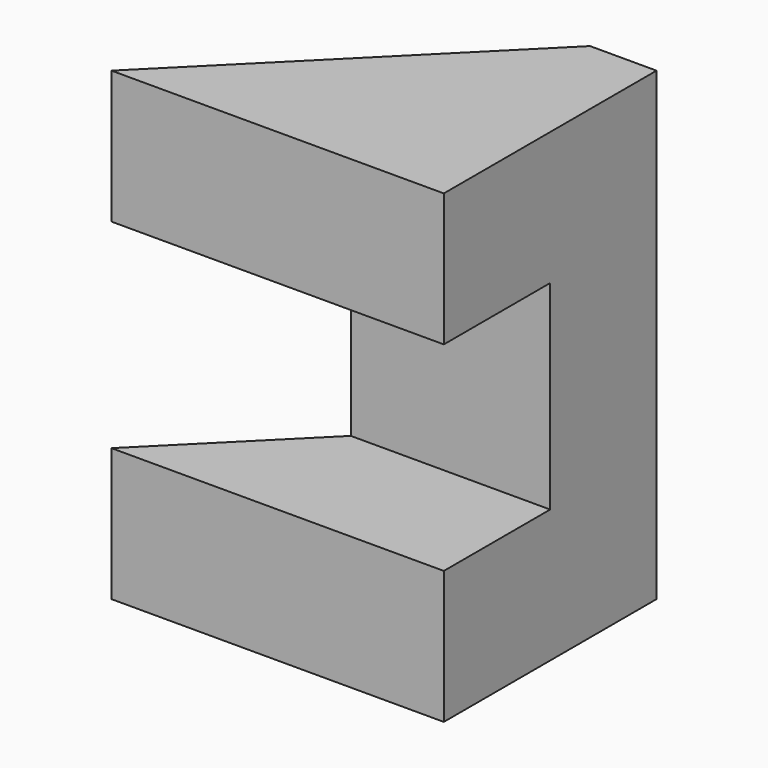
from build123d import *

# Parameters (mm, degrees)
BOX063002_W           = 9
BOX063002_H           = 7
BOX063002_DEPTH       = 7
CHAMFER005021016_SIZE = 4
BOX063003_W           = 5
BOX063003_H           = 4
BOX063003_DEPTH       = 3
BOX063004_W           = 5
BOX063004_H           = 4
BOX063004_DEPTH       = 7


with BuildPart() as chamfer005021017:
    # Box063002 → Box063002 (new body)
    with BuildSketch(Plane(origin=(23, 30, 0), x_dir=(1, 0, 0), z_dir=(0, 0, 1))):
        with Locations((4.5, 3.5)):
            Rectangle(BOX063002_W, BOX063002_H)
    extrude(amount=BOX063002_DEPTH)

    # Chamfer005021016
    chamfer005021016_edges = [chamfer005021017.edges().sort_by_distance(p)[0] for p in [
        (32, 30, 3.5),
    ]]
    chamfer(chamfer005021016_edges, length=CHAMFER005021016_SIZE)


with BuildPart() as chamfer005021017_1:
    # Chamfer005021016 placement: moved
    add(chamfer005021017.part.moved(Location((-5, -11, 0))))


with BuildPart() as cube061:
    # Box063003 → Box063003 (new body)
    with BuildSketch(Plane(origin=(23, 17, 2), x_dir=(1, 0, 0), z_dir=(0, 0, 1))):
        with Locations((2.5, 2)):
            Rectangle(BOX063003_W, BOX063003_H)
    extrude(amount=BOX063003_DEPTH)


with BuildPart() as obj1:
    # Box063004 → Box063004 (new body)
    with BuildSketch(Plane(origin=(23, 19, 0), x_dir=(1, 0, 0), z_dir=(0, 0, 1))):
        with Locations((2.5, 2)):
            Rectangle(BOX063004_W, BOX063004_H)
    extrude(amount=BOX063004_DEPTH)

    # Cut036009013017007008007: cut Cube061
    add(cube061.part, mode=Mode.SUBTRACT)

    # Cut036009013017007008008: cut Chamfer005021017
    add(chamfer005021017_1.part, mode=Mode.SUBTRACT)


with BuildPart() as obj1_1:
    # Cut036009013017007008008 placement: moved
    add(obj1.part.moved(Location((0, 0, 10.5))))


solid = obj1_1.part
